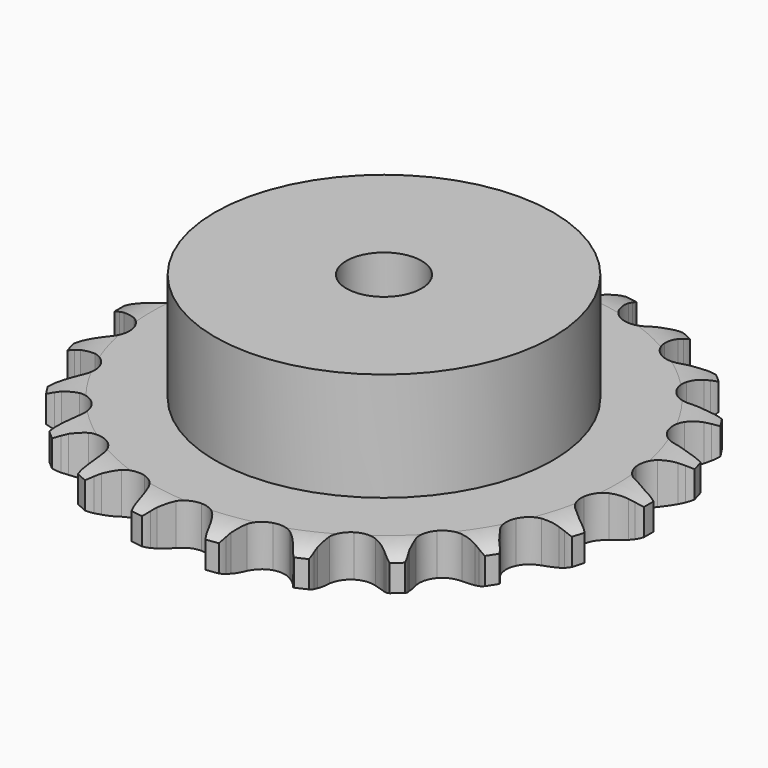
from build123d import *

# Parameters (mm, degrees)
PAD_DEPTH         = 11.1
SKETCH001_R       = 45
PAD001_DEPTH      = 40
SKETCH002_R       = 10
POCKET_DEPTH      = 0.001
POCKET_DEPTH_BACK = -40.001


with BuildPart() as part:
    # Sprocket → Pad (new body)
    with BuildSketch(Plane.XY):
        with BuildLine():
            ThreePointArc((-10.376186, 72.167957), (-8.715102, 70.404042), (-7.530275, 68.290566))
            Line((-7.530275, 68.290566), (-6.946236, 66.8646))
            ThreePointArc((-6.946236, 66.8646), (-6.01069, 64.957975), (-4.827278, 63.194456))
            ThreePointArc((-4.827278, 63.194456), (-2.688548, 61.449868), (0, 60.825797))
            ThreePointArc((0, 60.825797), (2.688548, 61.449868), (4.827278, 63.194456))
            ThreePointArc((4.827278, 63.194456), (6.01069, 64.957975), (6.946236, 66.8646))
            Line((6.946236, 66.8646), (7.530275, 68.290566))
            ThreePointArc((7.530275, 68.290566), (8.715102, 70.404042), (10.376186, 72.167957))
            ThreePointArc((10.376186, 72.167957), (11.473032, 70.007511), (12.01443, 67.645842))
            Line((12.01443, 67.645842), (12.17307, 66.113095))
            ThreePointArc((12.17307, 66.113095), (12.533562, 64.020128), (13.172197, 61.994637))
            ThreePointArc((13.172197, 61.994637), (14.732786, 59.718168), (17.136607, 58.361924))
            ThreePointArc((17.136607, 58.361924), (19.892071, 58.203265), (22.435675, 59.274635))
            Line((22.435675, 59.274635), (25.5028, 62.199133))
            ThreePointArc((25.5028, 62.199133), (25.96914, 62.81273), (26.464922, 63.402795))
            ThreePointArc((26.464922, 63.402795), (28.19719, 65.096856), (30.28794, 66.321338))
            ThreePointArc((30.28794, 66.321338), (30.731688, 63.939389), (30.585797, 61.520854))
            Line((30.585797, 61.520854), (30.306186, 60.0055))
            ThreePointArc((30.306186, 60.0055), (30.062419, 57.89575), (30.104538, 55.772382))
            ThreePointArc((30.104538, 55.772382), (30.960556, 53.148457), (32.884908, 51.169916))
            ThreePointArc((32.884908, 51.169916), (35.484057, 50.24138), (38.226467, 50.552736))
            Line((38.226467, 50.552736), (41.993278, 52.494662))
            ThreePointArc((41.993278, 52.494662), (42.613599, 52.952021), (43.255538, 53.378506))
            ThreePointArc((43.255538, 53.378506), (45.394909, 54.515909), (47.745946, 55.101759))
            ThreePointArc((47.745946, 55.101759), (47.500647, 52.691277), (46.679285, 50.411812))
            Line((46.679285, 50.411812), (45.984075, 49.036616))
            ThreePointArc((45.984075, 49.036616), (45.155797, 47.081003), (44.597988, 45.031781))
            ThreePointArc((44.597988, 45.031781), (44.680087, 42.272974), (45.96907, 39.832426))
            ThreePointArc((45.96907, 39.832426), (48.201336, 38.209237), (50.920378, 37.735355))
            Line((50.920378, 37.735355), (55.08171, 38.537386))
            ThreePointArc((55.08171, 38.537386), (55.805757, 38.801454), (56.541847, 39.029808))
            ThreePointArc((56.541847, 39.029808), (58.915003, 39.518408), (61.335859, 39.418163))
            ThreePointArc((61.335859, 39.418163), (60.421385, 37.174432), (58.991094, 35.218705))
            Line((58.991094, 35.218705), (57.936608, 34.095077))
            ThreePointArc((57.936608, 34.095077), (56.590922, 32.452034), (55.478375, 30.642972))
            ThreePointArc((55.478375, 30.642972), (54.779903, 27.972787), (55.329091, 25.267949))
            ThreePointArc((55.329091, 25.267949), (57.013629, 23.081608), (59.489022, 21.860879))
            Line((59.489022, 21.860879), (63.70775, 21.45804))
            ThreePointArc((63.70775, 21.45804), (64.476864, 21.507424), (65.247473, 21.519147))
            ThreePointArc((65.247473, 21.519147), (67.662153, 21.31936), (69.956706, 20.541142))
            ThreePointArc((69.956706, 20.541142), (68.447142, 18.645935), (66.523797, 17.172388))
            Line((66.523797, 17.172388), (65.195462, 16.391358))
            ThreePointArc((65.195462, 16.391358), (63.441386, 15.193993), (61.864234, 13.771652))
            ThreePointArc((61.864234, 13.771652), (60.441776, 11.40641), (60.206678, 8.656413))
            ThreePointArc((60.206678, 8.656413), (61.207017, 6.084046), (63.238221, 4.215366))
            Line((63.238221, 4.215366), (67.172567, 2.640291))
            ThreePointArc((67.172567, 2.640291), (67.92444, 2.47099), (68.667136, 2.265133))
            ThreePointArc((68.667136, 2.265133), (70.927719, 1.393145), (72.910076, 0))
            ThreePointArc((72.910076, 0), (70.927719, -1.393145), (68.667136, -2.265133))
            Line((68.667136, -2.265133), (67.172567, -2.640291))
            ThreePointArc((67.172567, -2.640291), (65.152207, -3.294974), (63.238221, -4.215366))
            ThreePointArc((63.238221, -4.215366), (61.207017, -6.084046), (60.206678, -8.656413))
            ThreePointArc((60.206678, -8.656413), (60.441776, -11.40641), (61.864234, -13.771652))
            Line((61.864234, -13.771652), (65.195462, -16.391358))
            ThreePointArc((65.195462, -16.391358), (65.869181, -16.765628), (66.523797, -17.172388))
            ThreePointArc((66.523797, -17.172388), (68.447142, -18.645935), (69.956706, -20.541142))
            ThreePointArc((69.956706, -20.541142), (67.662153, -21.31936), (65.247473, -21.519147))
            Line((65.247473, -21.519147), (63.70775, -21.45804))
            ThreePointArc((63.70775, -21.45804), (61.584783, -21.517002), (59.489022, -21.860879))
            ThreePointArc((59.489022, -21.860879), (57.013629, -23.081608), (55.329091, -25.267949))
            ThreePointArc((55.329091, -25.267949), (54.779903, -27.972787), (55.478375, -30.642972))
            Line((55.478375, -30.642972), (57.936608, -34.095077))
            ThreePointArc((57.936608, -34.095077), (58.477593, -34.643995), (58.991094, -35.218705))
            ThreePointArc((58.991094, -35.218705), (60.421385, -37.174432), (61.335859, -39.418163))
            ThreePointArc((61.335859, -39.418163), (58.915003, -39.518408), (56.541847, -39.029808))
            Line((56.541847, -39.029808), (55.08171, -38.537386))
            ThreePointArc((55.08171, -38.537386), (53.028127, -37.995851), (50.920378, -37.735355))
            ThreePointArc((50.920378, -37.735355), (48.201336, -38.209237), (45.96907, -39.832426))
            ThreePointArc((45.96907, -39.832426), (44.680087, -42.272974), (44.597988, -45.031781))
            Line((44.597988, -45.031781), (45.984075, -49.036616))
            ThreePointArc((45.984075, -49.036616), (46.348498, -49.715712), (46.679285, -50.411812))
            ThreePointArc((46.679285, -50.411812), (47.500647, -52.691277), (47.745946, -55.101759))
            ThreePointArc((47.745946, -55.101759), (45.394909, -54.515909), (43.255538, -53.378506))
            Line((43.255538, -53.378506), (41.993278, -52.494662))
            ThreePointArc((41.993278, -52.494662), (40.175447, -51.396502), (38.226467, -50.552736))
            ThreePointArc((38.226467, -50.552736), (35.484057, -50.24138), (32.884908, -51.169916))
            ThreePointArc((32.884908, -51.169916), (30.960556, -53.148457), (30.104538, -55.772382))
            Line((30.104538, -55.772382), (30.306186, -60.0055))
            ThreePointArc((30.306186, -60.0055), (30.464524, -60.759757), (30.585797, -61.520854))
            ThreePointArc((30.585797, -61.520854), (30.731688, -63.939389), (30.28794, -66.321338))
            ThreePointArc((30.28794, -66.321338), (28.19719, -65.096856), (26.464922, -63.402795))
            Line((26.464922, -63.402795), (25.5028, -62.199133))
            ThreePointArc((25.5028, -62.199133), (24.067991, -60.633314), (22.435675, -59.274635))
            ThreePointArc((22.435675, -59.274635), (19.892071, -58.203265), (17.136607, -58.361924))
            ThreePointArc((17.136607, -58.361924), (14.732786, -59.718168), (13.172197, -61.994637))
            Line((13.172197, -61.994637), (12.17307, -66.113095))
            ThreePointArc((12.17307, -66.113095), (12.112495, -66.881408), (12.01443, -67.645842))
            ThreePointArc((12.01443, -67.645842), (11.473032, -70.007511), (10.376186, -72.167957))
            ThreePointArc((10.376186, -72.167957), (8.715102, -70.404042), (7.530275, -68.290566))
            Line((7.530275, -68.290566), (6.946236, -66.8646))
            ThreePointArc((6.946236, -66.8646), (6.01069, -64.957975), (4.827278, -63.194456))
            ThreePointArc((4.827278, -63.194456), (2.688548, -61.449868), (0, -60.825797))
            ThreePointArc((0, -60.825797), (-2.688548, -61.449868), (-4.827278, -63.194456))
            Line((-4.827278, -63.194456), (-6.946236, -66.8646))
            ThreePointArc((-6.946236, -66.8646), (-7.220816, -67.584725), (-7.530275, -68.290566))
            ThreePointArc((-7.530275, -68.290566), (-8.715102, -70.404042), (-10.376186, -72.167957))
            ThreePointArc((-10.376186, -72.167957), (-11.473032, -70.007511), (-12.01443, -67.645842))
            Line((-12.01443, -67.645842), (-12.17307, -66.113095))
            ThreePointArc((-12.17307, -66.113095), (-12.533562, -64.020128), (-13.172197, -61.994637))
            ThreePointArc((-13.172197, -61.994637), (-14.732786, -59.718168), (-17.136607, -58.361924))
            ThreePointArc((-17.136607, -58.361924), (-19.892071, -58.203265), (-22.435675, -59.274635))
            Line((-22.435675, -59.274635), (-25.5028, -62.199133))
            ThreePointArc((-25.5028, -62.199133), (-25.96914, -62.81273), (-26.464922, -63.402795))
            ThreePointArc((-26.464922, -63.402795), (-28.19719, -65.096856), (-30.28794, -66.321338))
            ThreePointArc((-30.28794, -66.321338), (-30.731688, -63.939389), (-30.585797, -61.520854))
            Line((-30.585797, -61.520854), (-30.306186, -60.0055))
            ThreePointArc((-30.306186, -60.0055), (-30.062419, -57.89575), (-30.104538, -55.772382))
            ThreePointArc((-30.104538, -55.772382), (-30.960556, -53.148457), (-32.884908, -51.169916))
            ThreePointArc((-32.884908, -51.169916), (-35.484057, -50.24138), (-38.226467, -50.552736))
            Line((-38.226467, -50.552736), (-41.993278, -52.494662))
            ThreePointArc((-41.993278, -52.494662), (-42.613599, -52.952021), (-43.255538, -53.378506))
            ThreePointArc((-43.255538, -53.378506), (-45.394909, -54.515909), (-47.745946, -55.101759))
            ThreePointArc((-47.745946, -55.101759), (-47.500647, -52.691277), (-46.679285, -50.411812))
            Line((-46.679285, -50.411812), (-45.984075, -49.036616))
            ThreePointArc((-45.984075, -49.036616), (-45.155797, -47.081003), (-44.597988, -45.031781))
            ThreePointArc((-44.597988, -45.031781), (-44.680087, -42.272974), (-45.96907, -39.832426))
            ThreePointArc((-45.96907, -39.832426), (-48.201336, -38.209237), (-50.920378, -37.735355))
            Line((-50.920378, -37.735355), (-55.08171, -38.537386))
            ThreePointArc((-55.08171, -38.537386), (-55.805757, -38.801454), (-56.541847, -39.029808))
            ThreePointArc((-56.541847, -39.029808), (-58.915003, -39.518408), (-61.335859, -39.418163))
            ThreePointArc((-61.335859, -39.418163), (-60.421385, -37.174432), (-58.991094, -35.218705))
            Line((-58.991094, -35.218705), (-57.936608, -34.095077))
            ThreePointArc((-57.936608, -34.095077), (-56.590922, -32.452034), (-55.478375, -30.642972))
            ThreePointArc((-55.478375, -30.642972), (-54.779903, -27.972787), (-55.329091, -25.267949))
            ThreePointArc((-55.329091, -25.267949), (-57.013629, -23.081608), (-59.489022, -21.860879))
            Line((-59.489022, -21.860879), (-63.70775, -21.45804))
            ThreePointArc((-63.70775, -21.45804), (-64.476864, -21.507424), (-65.247473, -21.519147))
            ThreePointArc((-65.247473, -21.519147), (-67.662153, -21.31936), (-69.956706, -20.541142))
            ThreePointArc((-69.956706, -20.541142), (-68.447142, -18.645935), (-66.523797, -17.172388))
            Line((-66.523797, -17.172388), (-65.195462, -16.391358))
            ThreePointArc((-65.195462, -16.391358), (-63.441386, -15.193993), (-61.864234, -13.771652))
            ThreePointArc((-61.864234, -13.771652), (-60.441776, -11.40641), (-60.206678, -8.656413))
            ThreePointArc((-60.206678, -8.656413), (-61.207017, -6.084046), (-63.238221, -4.215366))
            Line((-63.238221, -4.215366), (-67.172567, -2.640291))
            ThreePointArc((-67.172567, -2.640291), (-67.92444, -2.47099), (-68.667136, -2.265133))
            ThreePointArc((-68.667136, -2.265133), (-70.927719, -1.393145), (-72.910076, 0))
            ThreePointArc((-72.910076, 0), (-70.927719, 1.393145), (-68.667136, 2.265133))
            Line((-68.667136, 2.265133), (-67.172567, 2.640291))
            ThreePointArc((-67.172567, 2.640291), (-65.152207, 3.294974), (-63.238221, 4.215366))
            ThreePointArc((-63.238221, 4.215366), (-61.207017, 6.084046), (-60.206678, 8.656413))
            ThreePointArc((-60.206678, 8.656413), (-60.441776, 11.40641), (-61.864234, 13.771652))
            Line((-61.864234, 13.771652), (-65.195462, 16.391358))
            ThreePointArc((-65.195462, 16.391358), (-65.869181, 16.765628), (-66.523797, 17.172388))
            ThreePointArc((-66.523797, 17.172388), (-68.447142, 18.645935), (-69.956706, 20.541142))
            ThreePointArc((-69.956706, 20.541142), (-67.662153, 21.31936), (-65.247473, 21.519147))
            Line((-65.247473, 21.519147), (-63.70775, 21.45804))
            ThreePointArc((-63.70775, 21.45804), (-61.584783, 21.517002), (-59.489022, 21.860879))
            ThreePointArc((-59.489022, 21.860879), (-57.013629, 23.081608), (-55.329091, 25.267949))
            ThreePointArc((-55.329091, 25.267949), (-54.779903, 27.972787), (-55.478375, 30.642972))
            Line((-55.478375, 30.642972), (-57.936608, 34.095077))
            ThreePointArc((-57.936608, 34.095077), (-58.477593, 34.643995), (-58.991094, 35.218705))
            ThreePointArc((-58.991094, 35.218705), (-60.421385, 37.174432), (-61.335859, 39.418163))
            ThreePointArc((-61.335859, 39.418163), (-58.915003, 39.518408), (-56.541847, 39.029808))
            Line((-56.541847, 39.029808), (-55.08171, 38.537386))
            ThreePointArc((-55.08171, 38.537386), (-53.028127, 37.995851), (-50.920378, 37.735355))
            ThreePointArc((-50.920378, 37.735355), (-48.201336, 38.209237), (-45.96907, 39.832426))
            ThreePointArc((-45.96907, 39.832426), (-44.680087, 42.272974), (-44.597988, 45.031781))
            Line((-44.597988, 45.031781), (-45.984075, 49.036616))
            ThreePointArc((-45.984075, 49.036616), (-46.348498, 49.715712), (-46.679285, 50.411812))
            ThreePointArc((-46.679285, 50.411812), (-47.500647, 52.691277), (-47.745946, 55.101759))
            ThreePointArc((-47.745946, 55.101759), (-45.394909, 54.515909), (-43.255538, 53.378506))
            Line((-43.255538, 53.378506), (-41.993278, 52.494662))
            ThreePointArc((-41.993278, 52.494662), (-40.175447, 51.396502), (-38.226467, 50.552736))
            ThreePointArc((-38.226467, 50.552736), (-35.484057, 50.24138), (-32.884908, 51.169916))
            ThreePointArc((-32.884908, 51.169916), (-30.960556, 53.148457), (-30.104538, 55.772382))
            Line((-30.104538, 55.772382), (-30.306186, 60.0055))
            ThreePointArc((-30.306186, 60.0055), (-30.464524, 60.759757), (-30.585797, 61.520854))
            ThreePointArc((-30.585797, 61.520854), (-30.731688, 63.939389), (-30.28794, 66.321338))
            ThreePointArc((-30.28794, 66.321338), (-28.19719, 65.096856), (-26.464922, 63.402795))
            Line((-26.464922, 63.402795), (-25.5028, 62.199133))
            ThreePointArc((-25.5028, 62.199133), (-24.067991, 60.633314), (-22.435675, 59.274635))
            ThreePointArc((-22.435675, 59.274635), (-19.892071, 58.203265), (-17.136607, 58.361924))
            ThreePointArc((-17.136607, 58.361924), (-14.732786, 59.718168), (-13.172197, 61.994637))
            Line((-13.172197, 61.994637), (-12.17307, 66.113095))
            ThreePointArc((-12.17307, 66.113095), (-12.112495, 66.881408), (-12.01443, 67.645842))
            ThreePointArc((-12.01443, 67.645842), (-11.473032, 70.007511), (-10.376186, 72.167957))
        make_face()
    extrude(amount=PAD_DEPTH)

    # Sketch → Groove (revolve, cut)
    with BuildSketch(Plane.XZ):
        with BuildLine():
            Line((62.014719, 0), (70.5, 0))
            Line((78.985281, 0), (70.5, 0))
            Line((78.985281, 11.1), (78.985281, 0))
            Line((70.5, 11.1), (78.985281, 11.1))
            Line((62.014719, 11.1), (70.5, 11.1))
            ThreePointArc((70.5, 9.1), (66.373618, 10.593242), (62.014719, 11.1))
            Line((70.5, 2), (70.5, 9.1))
            ThreePointArc((62.014719, 0), (66.373618, 0.506758), (70.5, 2))
        make_face()
    revolve(axis=Axis((0, 0, 0), (0, 0, 1)), mode=Mode.SUBTRACT)

    # Sketch001 → Pad001 (join)
    with BuildSketch(Plane.XY):
        Circle(SKETCH001_R)
    extrude(amount=PAD001_DEPTH)

    # Sketch002 → Pocket (cut, two sides)
    with BuildSketch(Plane.XY) as pocket_sk:
        Circle(SKETCH002_R)
    extrude(amount=-POCKET_DEPTH, mode=Mode.SUBTRACT)
    extrude(pocket_sk.sketch, amount=-POCKET_DEPTH_BACK, mode=Mode.SUBTRACT)


solid = part.part
